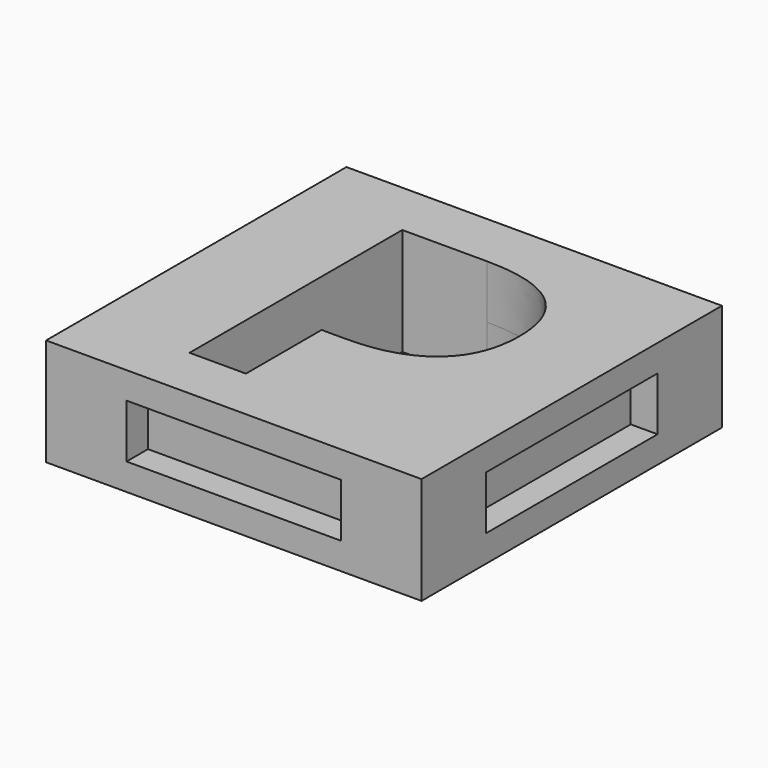
from build123d import *

# Parameters (mm, degrees)
F0_W     = 35.56
F0_H     = 35.56
F1_DEPTH = 5.08
F2_W     = 19.812
F2_H     = 4.572
F3_DEPTH = 2.54
F4_W     = 19.812
F4_H     = 4.572
F5_DEPTH = 2.54
F6_W     = 20.32
F6_H     = 5.08
F7_DEPTH = 2.54
F8_W     = 20.32
F8_H     = 5.08
F9_DEPTH = 2.54


with BuildPart() as f1:
    # F0 (on Top) → F1 (new body, symmetric)
    with BuildSketch(Plane.XY):
        Rectangle(F0_W, F0_H)
        with BuildLine():
            add(Edge.make_bspline(
                [(6.7551432292, 10.5116753472), (9.1391493056, 8.5383246528), (9.1391493056, 4.6302083333)],
                knots=[0, 0, 0, 1, 1, 1], degree=2))
            add(Edge.make_bspline(
                [(9.1391493056, 4.6302083333), (9.1391493056, 0.5622395833), (6.598046875, -1.5902560764)],
                knots=[0, 0, 0, 1, 1, 1], degree=2))
            add(Edge.make_bspline(
                [(6.598046875, -1.5902560764), (4.0569444444, -3.7427517361), (-0.6283854167, -3.7427517361)],
                knots=[0, 0, 0, 1, 1, 1], degree=2))
            Line((-0.6283854167, -3.7427517361), (-2.9159288194, -3.7427517361))
            Line((-2.9159288194, -3.7427517361), (-2.9159288194, -12.7))
            Line((-2.9159288194, -12.7), (-8.2572048611, -12.7))
            Line((-8.2572048611, -12.7), (-8.2572048611, 12.4850260417))
            Line((-8.2572048611, 12.4850260417), (-0.2149739583, 12.4850260417))
            add(Edge.make_bspline(
                [(-0.2149739583, 12.4850260417), (4.3711371528, 12.4850260417), (6.7551432292, 10.5116753472)],
                knots=[0, 0, 0, 1, 1, 1], degree=2))
        make_face(mode=Mode.SUBTRACT)
    extrude(amount=F1_DEPTH, both=True)

    # F2 (on face) → F3 (join)
    with BuildSketch(Plane(origin=(0, 17.78, 0), x_dir=(-1, 0, 0), z_dir=(0, 1, 0))):
        Rectangle(F2_W, F2_H)
    extrude(amount=F3_DEPTH)

    # F4 (on face) → F5 (join)
    with BuildSketch(Plane(origin=(-17.78, 0, 0), x_dir=(0, -1, 0), z_dir=(-1, 0, 0))):
        Rectangle(F4_W, F4_H)
    extrude(amount=F5_DEPTH)

    # F6 (on face) → F7 (cut)
    with BuildSketch(Plane.XZ.offset(17.78)):
        Rectangle(F6_W, F6_H)
    extrude(amount=-F7_DEPTH, mode=Mode.SUBTRACT)

    # F8 (on face) → F9 (cut)
    with BuildSketch(Plane.YZ.offset(17.78)):
        Rectangle(F8_W, F8_H)
    extrude(amount=-F9_DEPTH, mode=Mode.SUBTRACT)


solid = f1.part
